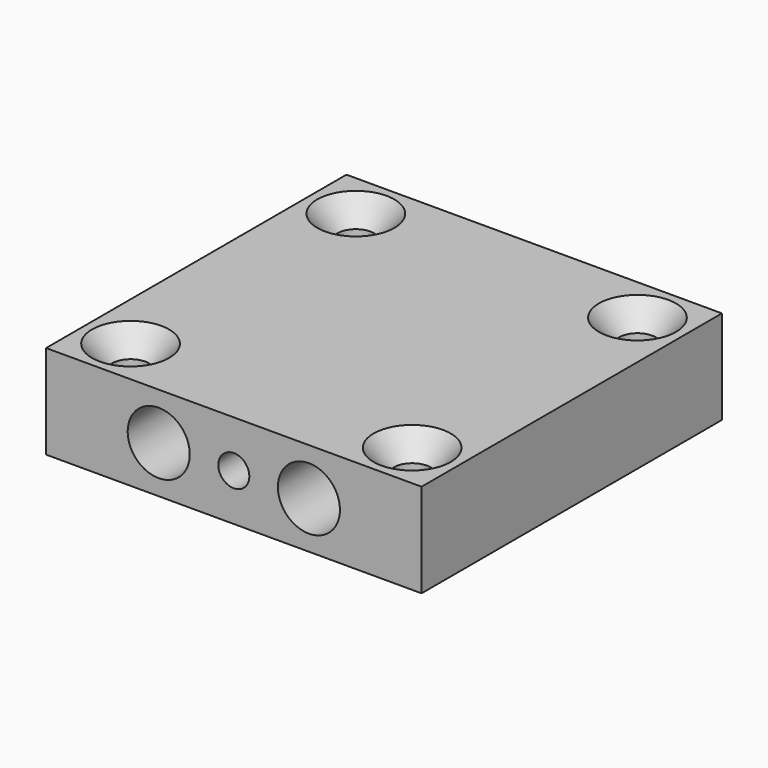
from build123d import *

# Parameters (mm, degrees)
F0_W           = 50.8
F0_H           = 50.8
F1_DEPTH       = 6.35
F1_DEPTH_BACK  = 6.35
F3_D           = 8.4
F5_D           = 4.9784
F5_CSINK_D     = 10.4394
F5_CSINK_ANGLE = 82
F6_D           = 4.2


with BuildPart() as f1:
    # F0 (on Top) → F1 (new body, two sides)
    with BuildSketch(Plane.XY) as f1_sk:
        with Locations((25.4, 25.4)):
            Rectangle(F0_W, F0_H)
    extrude(amount=-F1_DEPTH)
    extrude(f1_sk.sketch, amount=F1_DEPTH_BACK)

    # F3 (through all)
    with Locations(Plane.XZ):
        with Locations((15.24, 0), (35.56, 0)):
            Hole(F3_D / 2)

    # F5 (through all)
    with Locations(Plane.XY.offset(6.35)):
        with Locations((6.35, 44.45), (6.35, 6.35), (44.45, 6.35), (44.45, 44.45)):
            CounterSinkHole(F5_D / 2, F5_CSINK_D / 2, counter_sink_angle=F5_CSINK_ANGLE)

    # F6 (through all)
    with Locations(Plane.XZ):
        with Locations((25.4, 0)):
            Hole(F6_D / 2)


solid = f1.part
